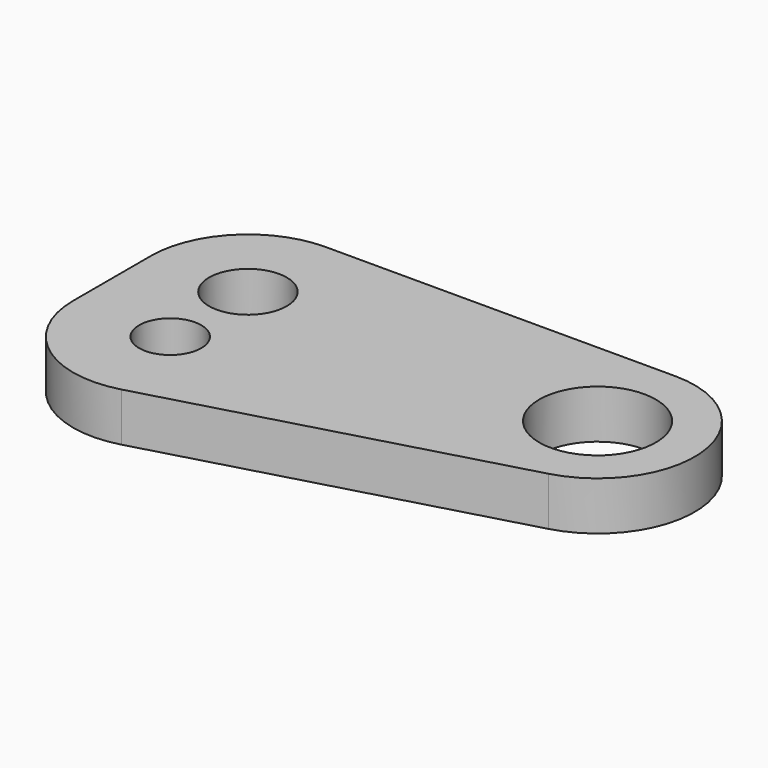
from build123d import *

# Parameters (mm, degrees)
F0_R     = 16
F0_R_2   = 20
F1_DEPTH = 25


with BuildPart() as f1:
    # F0 (on Top) → F1 (new body)
    with BuildSketch(Plane.XY):
        with BuildLine():
            Line((90.53268, 0), (-89.46732, 0))
            ThreePointArc((-89.46732, 0), (-124.822659, -14.644661), (-139.46732, -50))
            Line((-139.46732, -50), (-139.46732, -100))
            ThreePointArc((-139.46732, -100), (-119.723644, -139.806467), (-76.085126, -148.175895))
            Line((-76.085126, -148.175895), (103.914874, -98.175895))
            ThreePointArc((103.914874, -98.175895), (140.074556, -43.247029), (90.53268, 0))
        make_face()
        with Locations((-89.46732, -100)):
            Circle(F0_R, mode=Mode.SUBTRACT)
        with Locations((-89.46732, -50)):
            Circle(F0_R_2, mode=Mode.SUBTRACT)
        with BuildLine():
            ThreePointArc((120.53268, -50), (90.53268, -80), (60.53268, -50))
            ThreePointArc((60.53268, -50), (90.53268, -20), (120.53268, -50))
        make_face(mode=Mode.SUBTRACT)
    extrude(amount=F1_DEPTH)


solid = f1.part
